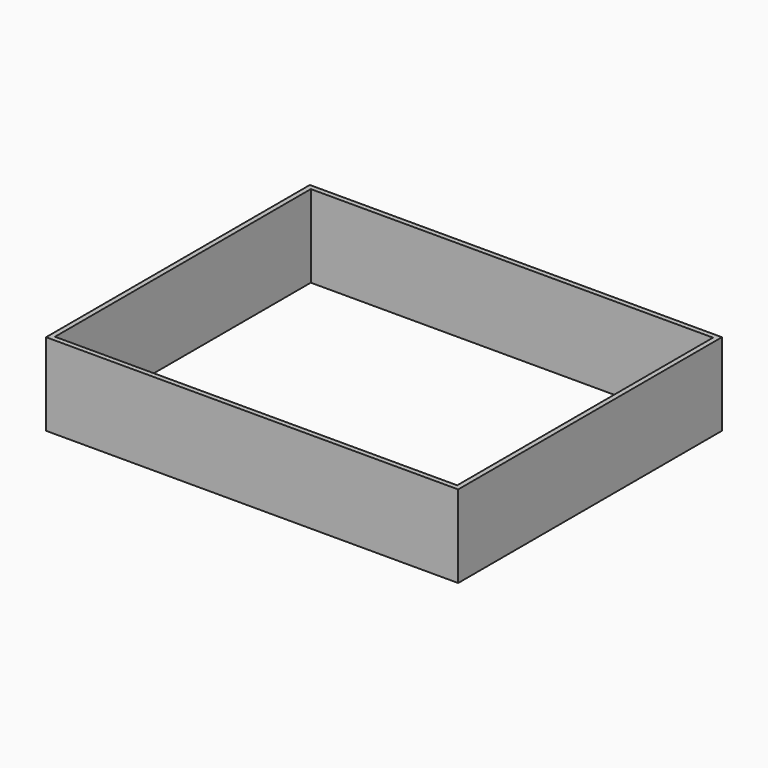
from build123d import *

# Parameters (mm, degrees)
F0_W     = 3
F0_H     = 97
F0_H_2   = 3
F0_W_2   = 122
F0_W_3   = 115.3171807528
F0_W_4   = 6.6828192472
F0_W_5   = 244
F1_DEPTH = 50


with BuildPart() as f1:
    # F0 (on Top) → F1 (new body)
    with BuildSketch(Plane.XY):
        with Locations((-123.8728196025, 35.2448651371)):
            Rectangle(F0_W, F0_H)
        with Locations((-123.8728196025, 85.2448651371)):
            Rectangle(F0_W, F0_H_2)
        with Locations((-61.3728196025, 85.2448651371)):
            Rectangle(F0_W_2, F0_H_2)
        with Locations((57.2857707739, 85.2448651371)):
            Rectangle(F0_W_3, F0_H_2)
        with Locations((118.2857707739, 85.2448651371)):
            Rectangle(F0_W_4, F0_H_2)
        with Locations((123.1271803975, 85.2448651371)):
            Rectangle(F0_W, F0_H_2)
        Polygon((124.6271803975, 83.7448651371), (121.6271803975, 83.7448651371), (121.6271803975, -110.2551348629), (121.6271803975, -113.2551348629), (124.6271803975, -113.2551348629), align=None)
        with Locations((-0.3728196025, -111.7551348629)):
            Rectangle(F0_W_5, F0_H_2)
        with Locations((-123.8728196025, -61.7551348629)):
            Rectangle(F0_W, F0_H)
        with Locations((-123.8728196025, -111.7551348629)):
            Rectangle(F0_W, F0_H_2)
    extrude(amount=F1_DEPTH)


solid = f1.part
